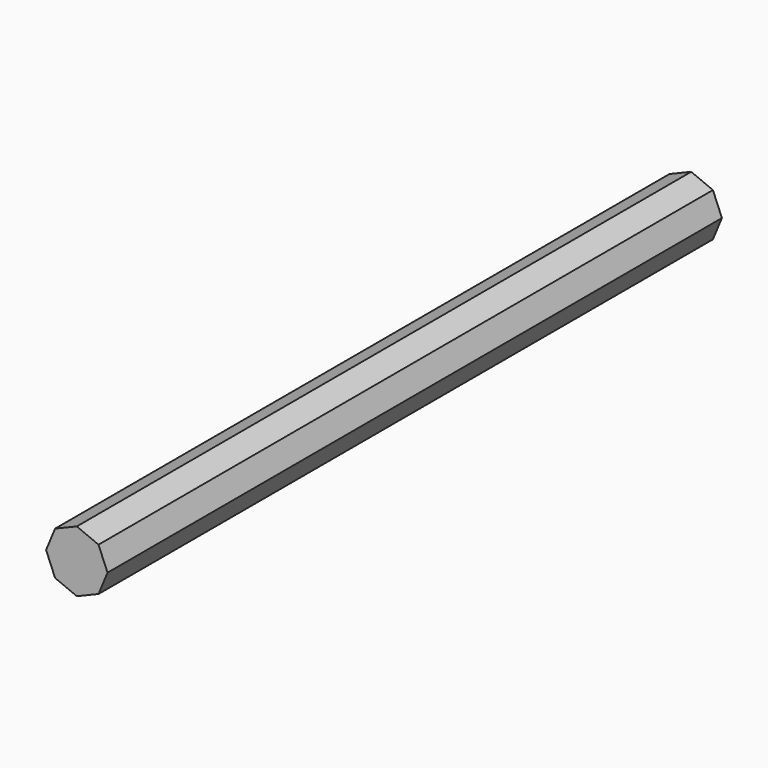
from build123d import *

# Parameters (mm, degrees)
F1_DEPTH = 200


with BuildPart() as f1:
    # F0 (on Front) → F1 (new body, symmetric)
    with BuildSketch(Plane.XZ):
        Polygon((11.313708, 11.313708), (0, 16), (-11.313708, 11.313708), (-16, 0), (16, 0), align=None)
        Polygon((11.313708, -11.313708), (16, 0), (-16, 0), (-11.313708, -11.313708), (0, -16), align=None)
    extrude(amount=F1_DEPTH, both=True)


solid = f1.part
